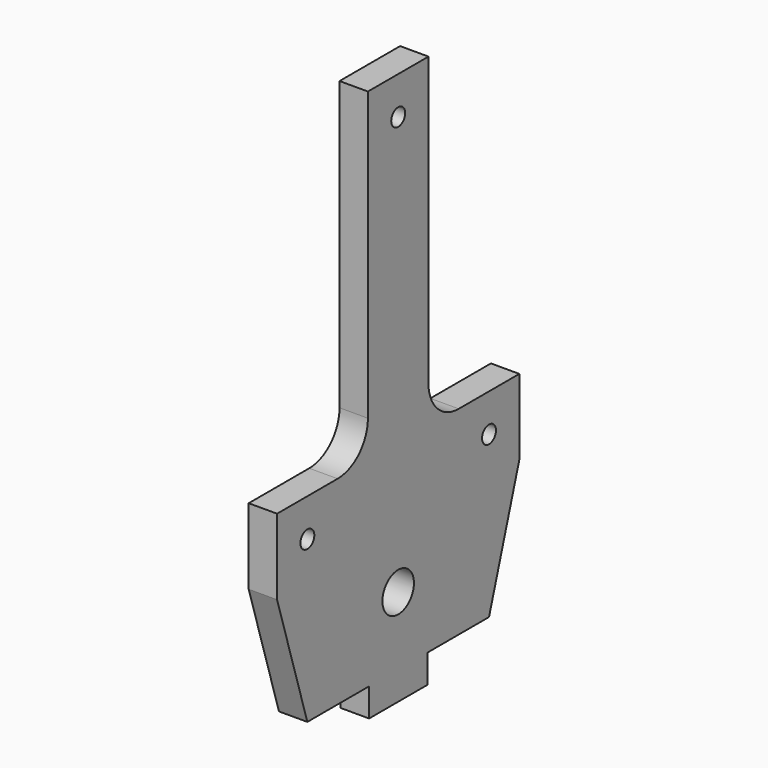
from build123d import *

# Parameters (mm, degrees)
F0_R     = 3.302
F0_R_2   = 1.4605
F1_DEPTH = 4.7625


with BuildPart() as f1:
    # F0 (on Right) → F1 (new body)
    with BuildSketch(Plane.YZ):
        with BuildLine():
            Line((12.7, 12.7), (0, 12.7))
            Line((0, 12.7), (0, 0))
            Line((0, 0), (6.35, -20.6375))
            Line((6.35, -20.6375), (19.304, -20.6375))
            Line((19.304, -20.6375), (19.304, -25.4))
            Line((19.304, -25.4), (31.496, -25.4))
            Line((31.496, -25.4), (31.496, -20.6375))
            Line((31.496, -20.6375), (44.45, -20.6375))
            Line((44.45, -20.6375), (50.8, 0))
            Line((50.8, 0), (50.8, 12.7))
            Line((50.8, 12.7), (38.1, 12.7))
            ThreePointArc((38.1, 12.7), (33.609872, 14.559872), (31.75, 19.05))
            Line((31.75, 19.05), (31.75, 67.31))
            Line((31.75, 67.31), (19.05, 67.31))
            Line((19.05, 67.31), (19.05, 19.05))
            ThreePointArc((19.05, 19.05), (17.190128, 14.559872), (12.7, 12.7))
        make_face()
        with Locations((25.4, -9.2075)):
            Circle(F0_R, mode=Mode.SUBTRACT)
        with Locations((6.35, 6.35)):
            Circle(F0_R_2, mode=Mode.SUBTRACT)
        with Locations((44.45, 6.35)):
            Circle(F0_R_2, mode=Mode.SUBTRACT)
        with Locations((25.4, 60.96)):
            Circle(F0_R_2, mode=Mode.SUBTRACT)
        with BuildLine():
            Line((12.7, 12.7), (0, 12.7))
            Line((0, 12.7), (0, 0))
            Line((0, 0), (6.35, -20.6375))
            Line((6.35, -20.6375), (19.304, -20.6375))
            Line((19.304, -20.6375), (19.304, -25.4))
            Line((19.304, -25.4), (31.496, -25.4))
            Line((31.496, -25.4), (31.496, -20.6375))
            Line((31.496, -20.6375), (44.45, -20.6375))
            Line((44.45, -20.6375), (50.8, 0))
            Line((50.8, 0), (50.8, 12.7))
            Line((50.8, 12.7), (38.1, 12.7))
            ThreePointArc((38.1, 12.7), (33.609872, 14.559872), (31.75, 19.05))
            Line((31.75, 19.05), (31.75, 67.31))
            Line((31.75, 67.31), (19.05, 67.31))
            Line((19.05, 67.31), (19.05, 19.05))
            ThreePointArc((19.05, 19.05), (17.190128, 14.559872), (12.7, 12.7))
        make_face()
        with Locations((25.4, -9.2075)):
            Circle(F0_R, mode=Mode.SUBTRACT)
        with Locations((6.35, 6.35)):
            Circle(F0_R_2, mode=Mode.SUBTRACT)
        with Locations((44.45, 6.35)):
            Circle(F0_R_2, mode=Mode.SUBTRACT)
        with Locations((25.4, 60.96)):
            Circle(F0_R_2, mode=Mode.SUBTRACT)
        with BuildLine():
            Line((12.7, 12.7), (0, 12.7))
            Line((0, 12.7), (0, 0))
            Line((0, 0), (6.35, -20.6375))
            Line((6.35, -20.6375), (19.304, -20.6375))
            Line((19.304, -20.6375), (19.304, -25.4))
            Line((19.304, -25.4), (31.496, -25.4))
            Line((31.496, -25.4), (31.496, -20.6375))
            Line((31.496, -20.6375), (44.45, -20.6375))
            Line((44.45, -20.6375), (50.8, 0))
            Line((50.8, 0), (50.8, 12.7))
            Line((50.8, 12.7), (38.1, 12.7))
            ThreePointArc((38.1, 12.7), (33.609872, 14.559872), (31.75, 19.05))
            Line((31.75, 19.05), (31.75, 67.31))
            Line((31.75, 67.31), (19.05, 67.31))
            Line((19.05, 67.31), (19.05, 19.05))
            ThreePointArc((19.05, 19.05), (17.190128, 14.559872), (12.7, 12.7))
        make_face()
        with Locations((25.4, -9.2075)):
            Circle(F0_R, mode=Mode.SUBTRACT)
        with Locations((6.35, 6.35)):
            Circle(F0_R_2, mode=Mode.SUBTRACT)
        with Locations((44.45, 6.35)):
            Circle(F0_R_2, mode=Mode.SUBTRACT)
        with Locations((25.4, 60.96)):
            Circle(F0_R_2, mode=Mode.SUBTRACT)
    extrude(amount=F1_DEPTH)


solid = f1.part
